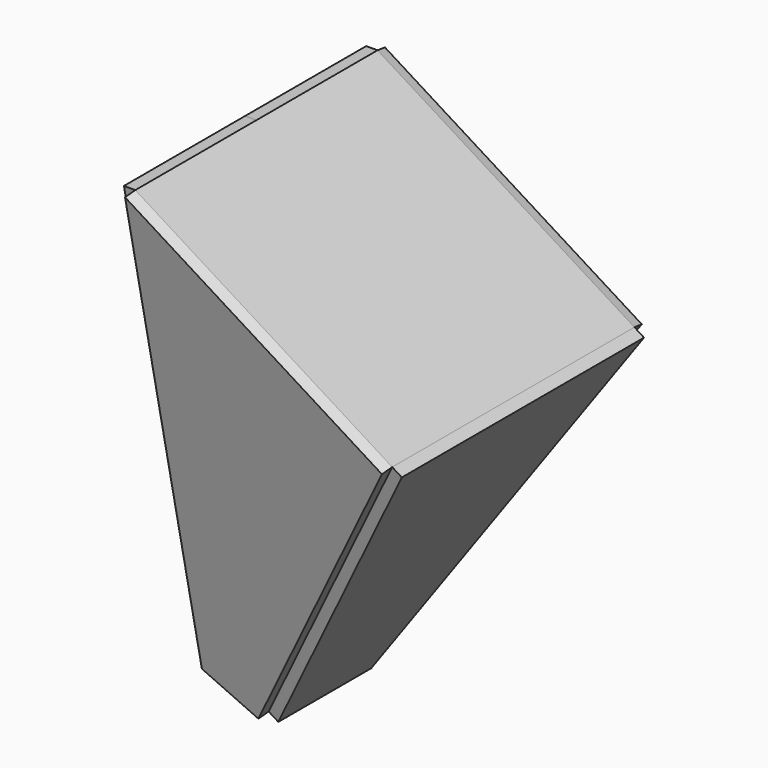
from build123d import *

# Parameters (mm, degrees)
F4_DEPTH  = 40
F7_DEPTH  = 50
F10_DEPTH = 50
F11_DEPTH = 3
F12_DEPTH = 3
F13_DEPTH = 3
F14_DEPTH = 3
F15_R     = 3.8
F16_DEPTH = 3
F17_DEPTH = 3


with BuildPart() as f4:
    # F3 (on Front) → F4 (new body, symmetric)
    with BuildSketch(Plane.XZ):
        Polygon((67.8726110647, -42.3474753351), (0, 0), (0, -120), (15.5127130708, -126.2675429144), align=None)
    extrude(amount=F4_DEPTH, both=True)

    # F6 (on face) → F7 (cut)
    with BuildSketch(Plane(origin=(-4.9702338564, 37.6589518572, -7.9660651967), x_dir=(0.9917664521, 0.1252874063, -0.0265022683), z_dir=(0.1280597688, -0.9702957263, 0.2052483841))):
        Polygon((91.8436139113, 10.6302635931), (5.0114962506, 8.2780934425), (5.0114962506, -139.7075390252), (95.8494145084, -137.2468568995), align=None)
    extrude(amount=-F7_DEPTH, mode=Mode.SUBTRACT)

    # F9 (on face) → F10 (cut)
    with BuildSketch(Plane(origin=(-4.9702338564, -37.6589518572, -7.9660651967), x_dir=(0.9917664521, -0.1252874063, -0.0265022683), z_dir=(-0.1280597688, -0.9702957263, -0.2052483841))):
        Polygon((94.1713751602, 9.5739853333), (5.0114962506, 8.2780934425), (-8.5428429474, -135.8194760247), (96.262452346, -134.2961862453), align=None)
    extrude(amount=F10_DEPTH, mode=Mode.SUBTRACT)


with BuildPart() as f11:
    # F11 (new): a face of the model
    f11_faces = [f4.part.faces().sort_by_distance(p)[0] for p in [
        (23.4864853616, 30.1678668079, -61.1344676725),
    ]]
    extrude(f11_faces, amount=F11_DEPTH)


with BuildPart() as f12:
    # F12 (new): a face of the model
    f12_faces = [f4.part.faces().sort_by_distance(p)[0] for p in [
        (0, 0, -50.7046552919),
    ]]
    extrude(f12_faces, amount=F12_DEPTH)


with BuildPart() as f13:
    # F13 (new): a face of the model
    f13_faces = [f4.part.faces().sort_by_distance(p)[0] for p in [
        (23.4864853616, -30.1678668079, -61.1344676725),
    ]]
    extrude(f13_faces, amount=F13_DEPTH)


with BuildPart() as f14:
    # F14 (new): a face of the model
    f14_faces = [f4.part.faces().sort_by_distance(p)[0] for p in [
        (45.5818433529, 0, -78.0741059138),
    ]]
    extrude(f14_faces, amount=F14_DEPTH)


with BuildPart() as f16:
    # F15 (on face) → F16 (new body)
    with BuildSketch(Plane(origin=(-3, 0, 0), x_dir=(0, -1, 0), z_dir=(-1, 0, 0))):
        Polygon((0, -110), (0, -120), (14.6161861532, -120), (40, 0), (0, 0), (0, -10), (0, -15), (0, -105), align=None)
        with Locations((25, -20.4)):
            Circle(F15_R, mode=Mode.SUBTRACT)
        with Locations((25, -8.8)):
            Circle(F15_R, mode=Mode.SUBTRACT)
        with BuildLine():
            Line((-2, -15), (0, -15))
            Line((0, -15), (0, -10))
            Line((0, -10), (-2, -10))
            ThreePointArc((-2, -10), (-2.7071067812, -9.7071067812), (-3, -9))
            Line((-3, -9), (-3, -6))
            ThreePointArc((-3, -6), (-3.2928932188, -5.2928932188), (-4, -5))
            Line((-4, -5), (-5, -5))
            ThreePointArc((-5, -5), (-5.7071067812, -5.2928932188), (-6, -6))
            Line((-6, -6), (-6, -19))
            ThreePointArc((-6, -19), (-5.7071067812, -19.7071067812), (-5, -20))
            Line((-5, -20), (-4, -20))
            ThreePointArc((-4, -20), (-3.2928932188, -19.7071067812), (-3, -19))
            Line((-3, -19), (-3, -16))
            ThreePointArc((-3, -16), (-2.7071067812, -15.2928932188), (-2, -15))
        make_face()
        with BuildLine():
            Line((-2, -110), (0, -110))
            Line((0, -110), (0, -105))
            Line((0, -105), (-2, -105))
            ThreePointArc((-2, -105), (-2.7071067812, -104.7071067812), (-3, -104))
            Line((-3, -104), (-3, -101))
            ThreePointArc((-3, -101), (-3.2928932188, -100.2928932188), (-4, -100))
            Line((-4, -100), (-5, -100))
            ThreePointArc((-5, -100), (-5.7071067812, -100.2928932188), (-6, -101))
            Line((-6, -101), (-6, -114))
            ThreePointArc((-6, -114), (-5.7071067812, -114.7071067812), (-5, -115))
            Line((-5, -115), (-4, -115))
            ThreePointArc((-4, -115), (-3.2928932188, -114.7071067812), (-3, -114))
            Line((-3, -114), (-3, -111))
            ThreePointArc((-3, -111), (-2.7071067812, -110.2928932188), (-2, -110))
        make_face()
    extrude(amount=-F16_DEPTH)


with BuildPart() as f17:
    # F15 (on face) → F17 (new body)
    with BuildSketch(Plane(origin=(-3, 0, 0), x_dir=(0, -1, 0), z_dir=(-1, 0, 0))):
        with BuildLine():
            Line((-14.6161861532, -120), (0, -120))
            Line((0, -120), (0, -110))
            Line((0, -110), (-2, -110))
            ThreePointArc((-2, -110), (-2.7071067812, -110.2928932188), (-3, -111))
            Line((-3, -111), (-3, -114))
            ThreePointArc((-3, -114), (-3.2928932188, -114.7071067812), (-4, -115))
            Line((-4, -115), (-5, -115))
            ThreePointArc((-5, -115), (-5.7071067812, -114.7071067812), (-6, -114))
            Line((-6, -114), (-6, -101))
            ThreePointArc((-6, -101), (-5.7071067812, -100.2928932188), (-5, -100))
            Line((-5, -100), (-4, -100))
            ThreePointArc((-4, -100), (-3.2928932188, -100.2928932188), (-3, -101))
            Line((-3, -101), (-3, -104))
            ThreePointArc((-3, -104), (-2.7071067812, -104.7071067812), (-2, -105))
            Line((-2, -105), (0, -105))
            Line((0, -105), (0, -15))
            Line((0, -15), (-2, -15))
            ThreePointArc((-2, -15), (-2.7071067812, -15.2928932188), (-3, -16))
            Line((-3, -16), (-3, -19))
            ThreePointArc((-3, -19), (-3.2928932188, -19.7071067812), (-4, -20))
            Line((-4, -20), (-5, -20))
            ThreePointArc((-5, -20), (-5.7071067812, -19.7071067812), (-6, -19))
            Line((-6, -19), (-6, -6))
            ThreePointArc((-6, -6), (-5.7071067812, -5.2928932188), (-5, -5))
            Line((-5, -5), (-4, -5))
            ThreePointArc((-4, -5), (-3.2928932188, -5.2928932188), (-3, -6))
            Line((-3, -6), (-3, -9))
            ThreePointArc((-3, -9), (-2.7071067812, -9.7071067812), (-2, -10))
            Line((-2, -10), (0, -10))
            Line((0, -10), (0, 0))
            Line((0, 0), (-40, 0))
            Line((-40, 0), (-14.6161861532, -120))
        make_face()
        with Locations((-25, -20.4)):
            Circle(F15_R, mode=Mode.SUBTRACT)
        with Locations((-25, -8.8)):
            Circle(F15_R, mode=Mode.SUBTRACT)
    extrude(amount=-F17_DEPTH)


solid = Compound([f4.part, f11.part, f12.part, f13.part, f14.part, f16.part, f17.part])
